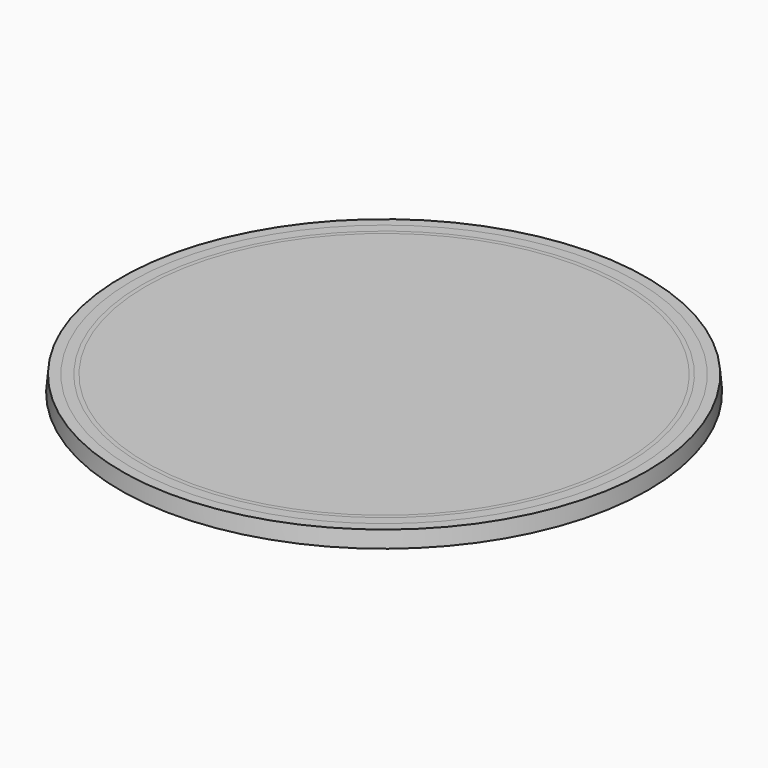
from build123d import *

# Parameters (mm, degrees)
F6_R      = 81.75
F7_DEPTH  = 5
F7_TAPER  = 5.1021652524
F8_R      = 78.625
F9_DEPTH  = 5
F9_TAPER  = 5.1021652524
F10_R     = 75.5
F11_DEPTH = 5
F11_TAPER = 5.1021652524
F12_R     = 74.25
F13_DEPTH = 5
F13_TAPER = 5.1021652524


with BuildPart() as f7:
    # F6 (on Top) → F7 (new body)
    with BuildSketch(Plane.XY):
        Circle(F6_R)
    extrude(amount=F7_DEPTH, taper=F7_TAPER)


with BuildPart() as f9:
    # F8 (on Top) → F9 (new body)
    with BuildSketch(Plane.XY):
        Circle(F8_R)
    extrude(amount=F9_DEPTH, taper=F9_TAPER)


with BuildPart() as f11:
    # F10 (on Top) → F11 (new body)
    with BuildSketch(Plane.XY):
        Circle(F10_R)
    extrude(amount=F11_DEPTH, taper=F11_TAPER)


with BuildPart() as f13:
    # F12 (on Top) → F13 (new body)
    with BuildSketch(Plane.XY):
        Circle(F12_R)
    extrude(amount=F13_DEPTH, taper=F13_TAPER)


solid = Compound([f7.part, f9.part, f11.part, f13.part])
